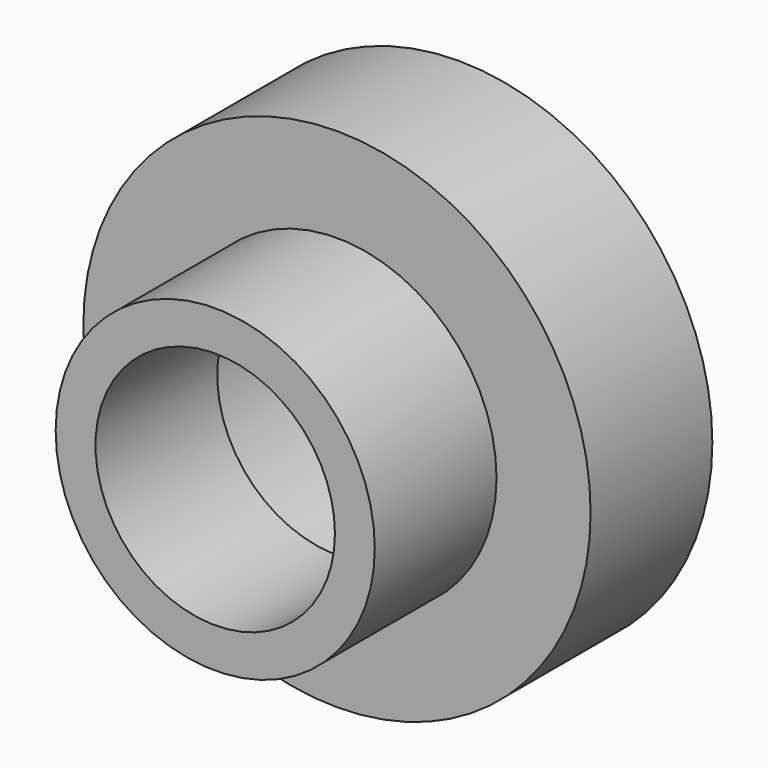
from build123d import *

# Parameters (mm, degrees)
F0_R     = 26.634574
F0_R_2   = 19.982736
F1_DEPTH = 25.4
F0_R_3   = 42.339148
F2_DEPTH = 25.4


with BuildPart() as f1:
    # F0 (on Front) → F1 (new body)
    with BuildSketch(Plane.XZ):
        Circle(F0_R)
        Circle(F0_R_2, mode=Mode.SUBTRACT)
    extrude(amount=F1_DEPTH)

    # F0 (on Front) → F2 (join)
    with BuildSketch(Plane.XZ):
        Circle(F0_R_3)
        Circle(F0_R, mode=Mode.SUBTRACT)
    extrude(amount=-F2_DEPTH)


solid = f1.part
